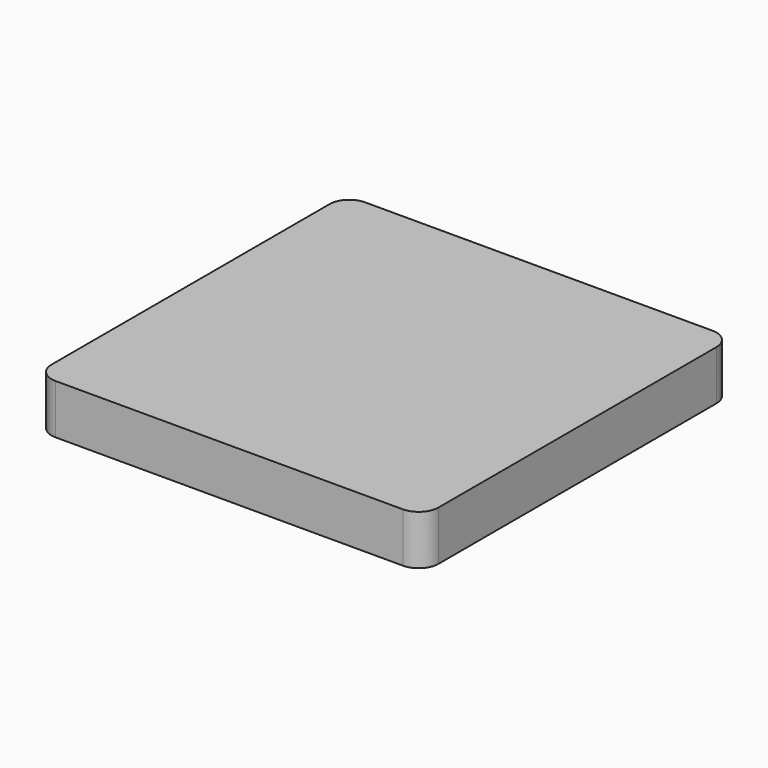
from build123d import *

# Parameters (mm, degrees)
F0_W     = 8
F0_H     = 8
F1_DEPTH = 10
F2_DEPTH = 5


with BuildPart() as f1:
    # F0 (on Top) → F1 (new body)
    with BuildSketch(Plane.XY):
        with BuildLine():
            Line((42, 46), (-28, 46))
            ThreePointArc((-28, 46), (-30.828427, 44.828427), (-32, 42))
            Line((-32, 42), (-32, -28))
            ThreePointArc((-32, -28), (-30.828427, -30.828427), (-28, -32))
            Line((-28, -32), (42, -32))
            ThreePointArc((42, -32), (44.828427, -30.828427), (46, -28))
            Line((46, -28), (46, 42))
            ThreePointArc((46, 42), (44.828427, 44.828427), (42, 46))
        make_face()
        with BuildLine():
            ThreePointArc((-28.5, 38.5), (-27.328427, 41.328427), (-24.5, 42.5))
            Line((-24.5, 42.5), (38.5, 42.5))
            ThreePointArc((38.5, 42.5), (41.328427, 41.328427), (42.5, 38.5))
            Line((42.5, 38.5), (42.5, -24.5))
            ThreePointArc((42.5, -24.5), (41.328427, -27.328427), (38.5, -28.5))
            Line((38.5, -28.5), (-24.5, -28.5))
            ThreePointArc((-24.5, -28.5), (-27.328427, -27.328427), (-28.5, -24.5))
            Line((-28.5, -24.5), (-28.5, 38.5))
        make_face(mode=Mode.SUBTRACT)
        with BuildLine():
            Line((38.5, 42.5), (-24.5, 42.5))
            ThreePointArc((-24.5, 42.5), (-27.328427, 41.328427), (-28.5, 38.5))
            Line((-28.5, 38.5), (-28.5, -24.5))
            ThreePointArc((-28.5, -24.5), (-27.328427, -27.328427), (-24.5, -28.5))
            Line((-24.5, -28.5), (38.5, -28.5))
            ThreePointArc((38.5, -28.5), (41.328427, -27.328427), (42.5, -24.5))
            Line((42.5, -24.5), (42.5, 38.5))
            ThreePointArc((42.5, 38.5), (41.328427, 41.328427), (38.5, 42.5))
        make_face()
        with BuildLine():
            ThreePointArc((-24.5, 34.5), (-23.328427, 37.328427), (-20.5, 38.5))
            Line((-20.5, 38.5), (34.5, 38.5))
            ThreePointArc((34.5, 38.5), (37.328427, 37.328427), (38.5, 34.5))
            Line((38.5, 34.5), (38.5, -20.5))
            ThreePointArc((38.5, -20.5), (37.328427, -23.328427), (34.5, -24.5))
            Line((34.5, -24.5), (-20.5, -24.5))
            ThreePointArc((-20.5, -24.5), (-23.328427, -23.328427), (-24.5, -20.5))
            Line((-24.5, -20.5), (-24.5, 34.5))
        make_face(mode=Mode.SUBTRACT)
        with BuildLine():
            Line((34.5, 38.5), (-20.5, 38.5))
            ThreePointArc((-20.5, 38.5), (-23.328427, 37.328427), (-24.5, 34.5))
            Line((-24.5, 34.5), (-24.5, -20.5))
            ThreePointArc((-24.5, -20.5), (-23.328427, -23.328427), (-20.5, -24.5))
            Line((-20.5, -24.5), (34.5, -24.5))
            ThreePointArc((34.5, -24.5), (37.328427, -23.328427), (38.5, -20.5))
            Line((38.5, -20.5), (38.5, 34.5))
            ThreePointArc((38.5, 34.5), (37.328427, 37.328427), (34.5, 38.5))
        make_face()
        with Locations((7, 7)):
            Rectangle(F0_W, F0_H, mode=Mode.SUBTRACT)
        with Locations((7, 7)):
            Rectangle(F0_W, F0_H)
    extrude(amount=F1_DEPTH)

    # F0 (on Top) → F2 (cut)
    with BuildSketch(Plane.XY):
        with BuildLine():
            Line((38.5, 42.5), (-24.5, 42.5))
            ThreePointArc((-24.5, 42.5), (-27.328427, 41.328427), (-28.5, 38.5))
            Line((-28.5, 38.5), (-28.5, -24.5))
            ThreePointArc((-28.5, -24.5), (-27.328427, -27.328427), (-24.5, -28.5))
            Line((-24.5, -28.5), (38.5, -28.5))
            ThreePointArc((38.5, -28.5), (41.328427, -27.328427), (42.5, -24.5))
            Line((42.5, -24.5), (42.5, 38.5))
            ThreePointArc((42.5, 38.5), (41.328427, 41.328427), (38.5, 42.5))
        make_face()
        with BuildLine():
            ThreePointArc((-24.5, 34.5), (-23.328427, 37.328427), (-20.5, 38.5))
            Line((-20.5, 38.5), (34.5, 38.5))
            ThreePointArc((34.5, 38.5), (37.328427, 37.328427), (38.5, 34.5))
            Line((38.5, 34.5), (38.5, -20.5))
            ThreePointArc((38.5, -20.5), (37.328427, -23.328427), (34.5, -24.5))
            Line((34.5, -24.5), (-20.5, -24.5))
            ThreePointArc((-20.5, -24.5), (-23.328427, -23.328427), (-24.5, -20.5))
            Line((-24.5, -20.5), (-24.5, 34.5))
        make_face(mode=Mode.SUBTRACT)
    extrude(amount=F2_DEPTH, mode=Mode.SUBTRACT)


solid = f1.part
